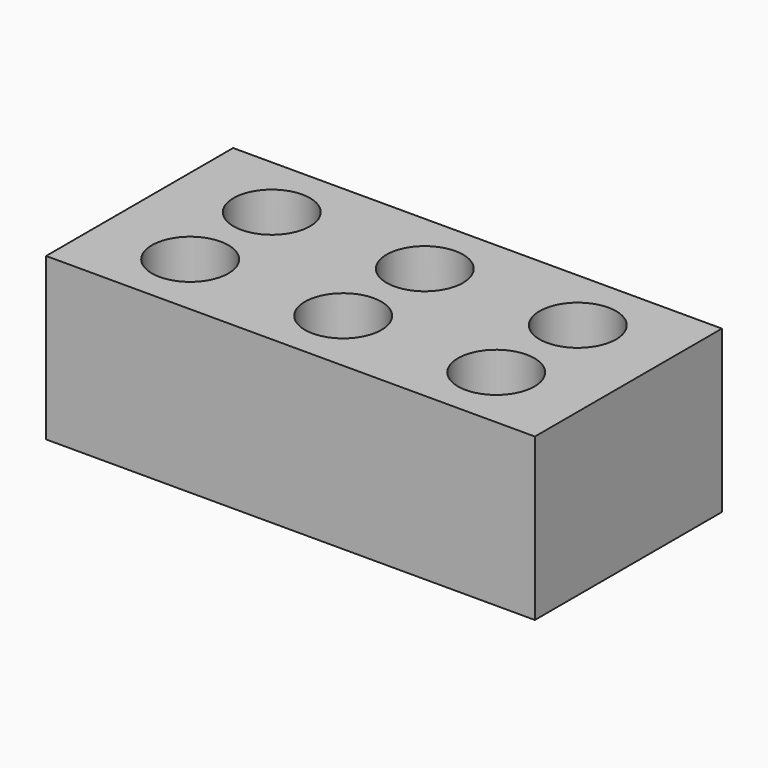
from build123d import *

# Parameters (mm, degrees)
CYLINDER003_R     = 18
CYLINDER003_DEPTH = 80
CYLINDER002_R     = 18
CYLINDER002_DEPTH = 80
CYLINDER005_R     = 18
CYLINDER005_DEPTH = 80
CYLINDER004_R     = 18
CYLINDER004_DEPTH = 80
CYLINDER001_R     = 18
CYLINDER001_DEPTH = 80
CYLINDER_R        = 18
CYLINDER_DEPTH    = 80
BOX_W             = 230
BOX_H             = 110
BOX_DEPTH         = 76


with BuildPart() as cylinder003:
    # Cylinder003 → Cylinder003 (new body)
    with BuildSketch(Plane(origin=(43, 79, 0), x_dir=(1, 0, 0), z_dir=(0, 0, 1))):
        Circle(CYLINDER003_R)
    extrude(amount=CYLINDER003_DEPTH)


with BuildPart() as fusion001:
    # Cylinder002 → Cylinder002 (new body)
    with BuildSketch(Plane(origin=(43, 31, 0), x_dir=(1, 0, 0), z_dir=(0, 0, 1))):
        Circle(CYLINDER002_R)
    extrude(amount=CYLINDER002_DEPTH)

    # Fusion001: union Cylinder003
    add(cylinder003.part)


with BuildPart() as fusion001_1:
    # Fusion001 placement: moved
    add(fusion001.part.moved(Location((72, 0, 0))))


with BuildPart() as cylinder005:
    # Cylinder005 → Cylinder005 (new body)
    with BuildSketch(Plane(origin=(43, 79, 0), x_dir=(1, 0, 0), z_dir=(0, 0, 1))):
        Circle(CYLINDER005_R)
    extrude(amount=CYLINDER005_DEPTH)


with BuildPart() as fusion002:
    # Cylinder004 → Cylinder004 (new body)
    with BuildSketch(Plane(origin=(43, 31, 0), x_dir=(1, 0, 0), z_dir=(0, 0, 1))):
        Circle(CYLINDER004_R)
    extrude(amount=CYLINDER004_DEPTH)

    # Fusion002: union Cylinder005
    add(cylinder005.part)


with BuildPart() as fusion002_1:
    # Fusion002 placement: moved
    add(fusion002.part.moved(Location((144, 0, 0))))


with BuildPart() as cylinder001:
    # Cylinder001 → Cylinder001 (new body)
    with BuildSketch(Plane(origin=(43, 79, 0), x_dir=(1, 0, 0), z_dir=(0, 0, 1))):
        Circle(CYLINDER001_R)
    extrude(amount=CYLINDER001_DEPTH)


with BuildPart() as fusion003:
    # Cylinder → Cylinder (new body)
    with BuildSketch(Plane(origin=(43, 31, 0), x_dir=(1, 0, 0), z_dir=(0, 0, 1))):
        Circle(CYLINDER_R)
    extrude(amount=CYLINDER_DEPTH)

    # Fusion: union Cylinder001
    add(cylinder001.part)

    # Fusion003: union Fusion001, Fusion002
    add(fusion001_1.part)
    add(fusion002_1.part)


with BuildPart() as fusion003_1:
    # Fusion003 placement: moved
    add(fusion003.part.moved(Location((0, 0, 10))))


with BuildPart() as cut:
    # Box → Box (new body)
    with BuildSketch(Plane.XY):
        with Locations((115, 55)):
            Rectangle(BOX_W, BOX_H)
    extrude(amount=BOX_DEPTH)

    # Cut: cut Fusion003
    add(fusion003_1.part, mode=Mode.SUBTRACT)


solid = cut.part
